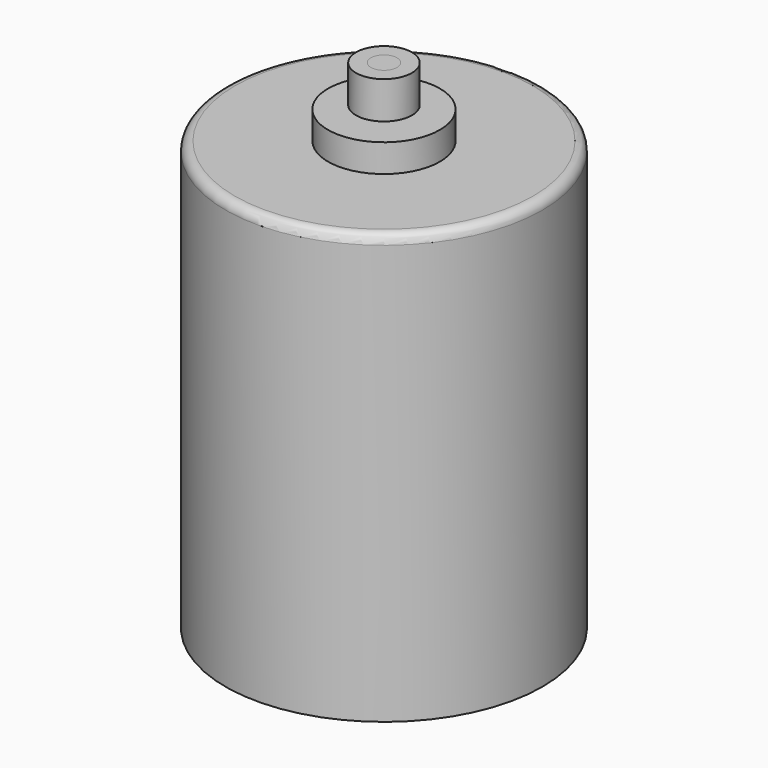
from build123d import *

# Parameters (mm, degrees)
F0_R      = 8.5
F0_R_2    = 8.2
F1_DEPTH  = 23
F2_DEPTH  = 0.7
F3_R      = 4.25
F4_DEPTH  = 0.7
F5_R      = 2.3
F6_DEPTH  = 1.6
F7_R      = 0.5
F8_R      = 3
F9_DEPTH  = 1.5
F10_R     = 0.7
F11_DEPTH = 2.2
F12_R     = 1.5
F12_R_2   = 0.7
F13_DEPTH = 2


with BuildPart() as f1:
    # F0 (on Top) → F1 (new body)
    with BuildSketch(Plane.XY):
        Circle(F0_R)
        Circle(F0_R_2, mode=Mode.SUBTRACT)
        Circle(F0_R_2)
    extrude(amount=F1_DEPTH)

    # F0 (on Top) → F2 (cut)
    with BuildSketch(Plane.XY):
        Circle(F0_R_2)
    extrude(amount=F2_DEPTH, mode=Mode.SUBTRACT)

    # F3 (on face) → F4 (join)
    with BuildSketch(Plane.XY):
        Circle(F3_R)
    extrude(amount=F4_DEPTH)

    # F5 (on face) → F6 (join)
    with BuildSketch(Plane.XY):
        Circle(F5_R)
    extrude(amount=-F6_DEPTH)

    # F7
    f7_edges = [f1.edges().sort_by_distance(p)[0] for p in [
        (-4.25, 0, 0),
        (-2.3, 0, -1.6),
        (-8.5, 0, 23),
    ]]
    fillet(f7_edges, radius=F7_R)

    # F8 (on face) → F9 (join)
    with BuildSketch(Plane.XY.offset(23)):
        Circle(F8_R)
    extrude(amount=F9_DEPTH)

    # F10 (on face) → F11 (join)
    with BuildSketch(Plane.XY.offset(24.5)):
        Circle(F10_R)
    extrude(amount=F11_DEPTH)


with BuildPart() as f13:
    # F12 (on face) → F13 (new body)
    with BuildSketch(Plane.XY.offset(26.7)):
        Circle(F12_R)
        Circle(F12_R_2, mode=Mode.SUBTRACT)
    extrude(amount=-F13_DEPTH)


solid = Compound([f1.part, f13.part])
